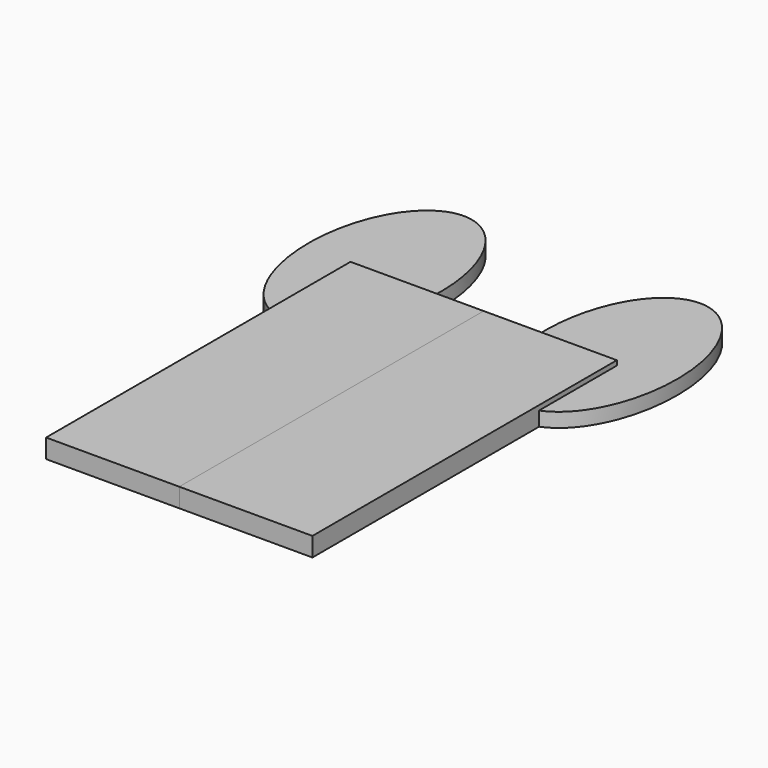
from build123d import *

# Parameters (mm, degrees)
F1_W     = 70
F1_H     = 200
F2_DEPTH = 10
F4_DEPTH = 7.5


with BuildPart() as f2:
    # F1 (on face) → F2 (new body)
    with BuildSketch(Plane.XY):
        with Locations((35, 100)):
            Rectangle(F1_W, F1_H)
    extrude(amount=F2_DEPTH)

    # F3 (on Top) → F4 (join)
    with BuildSketch(Plane.XY):
        with BuildLine():
            add(Edge.make_bspline(
                [(62.1666908264, 264.6440267563), (2.0624235929, 264.6440267563), (32.1145572097, 176.6945496202), (62.1666908264, 88.745072484), (92.2188244432, 176.6945496202), (122.2709580599, 264.6440267563), (62.1666908264, 264.6440267563)],
                knots=[0, 0, 0, 2.0943951024, 2.0943951024, 4.1887902048, 4.1887902048, 6.2831853072, 6.2831853072, 6.2831853072], degree=2, weights=[1, 0.5, 1, 0.5, 1, 0.5, 1]))
        make_face()
    extrude(amount=F4_DEPTH)

    # F5: F2 across plane


with BuildPart() as f2_1:
    add(f2.part)
    add(f2.part.mirror(Plane.YZ))


solid = f2_1.part
